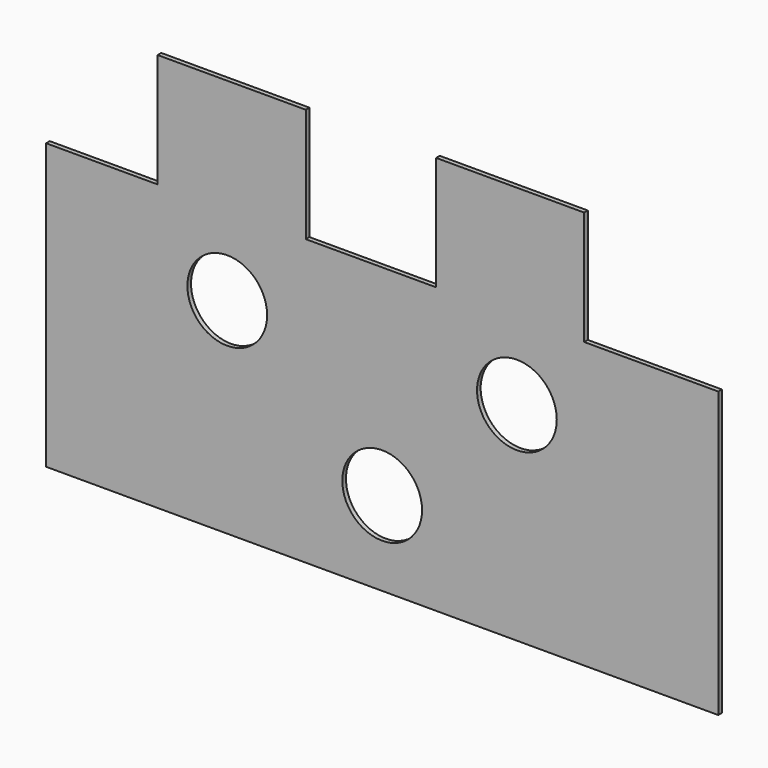
from build123d import *

# Parameters (mm, degrees)
F0_W     = 13
F0_H     = 10
F0_R     = 3.5
F1_DEPTH = 0.2


with BuildPart() as f1:
    # F0 (on Front) → F1 (new body, symmetric)
    with BuildSketch(Plane.XZ):
        with Locations((-13.206897, 17.5)):
            Rectangle(F0_W, F0_H)
        Polygon((-19.706897, 12.5), (-29.5, 12.5), (-29.5, -12.5), (29.5, -12.5), (29.5, 12.5), (17.729655, 12.5), (4.729655, 12.5), (-6.706897, 12.5), align=None)
        with Locations((0, -5.123793)):
            Circle(F0_R, mode=Mode.SUBTRACT)
        with Locations((-13.597759, 5.517931)):
            Circle(F0_R, mode=Mode.SUBTRACT)
        with Locations((11.824138, 5.715)):
            Circle(F0_R, mode=Mode.SUBTRACT)
        with Locations((11.229655, 17.5)):
            Rectangle(F0_W, F0_H)
    extrude(amount=F1_DEPTH, both=True)


solid = f1.part
